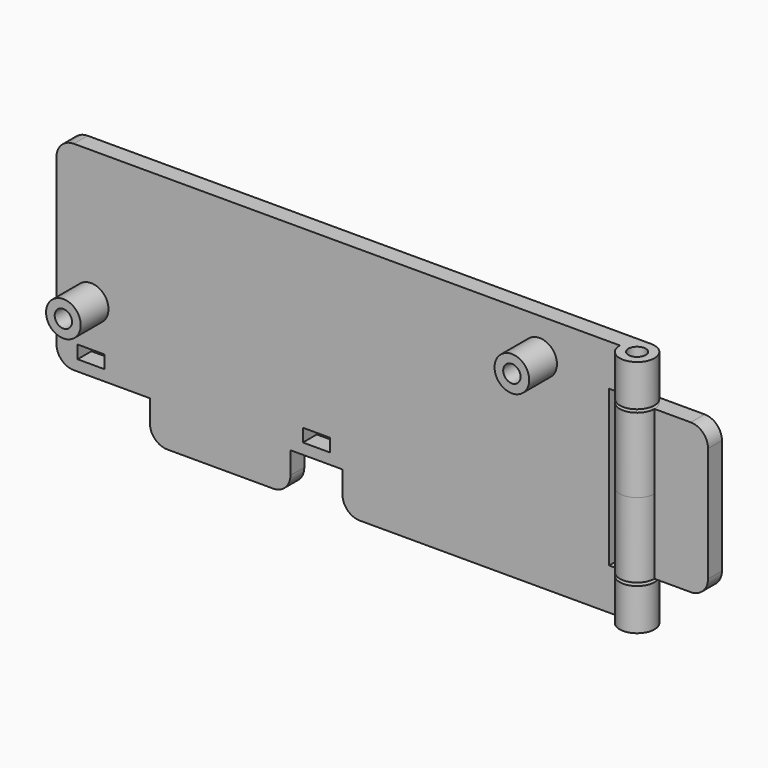
from build123d import *

# Parameters (mm, degrees)
F0_R           = 2
F0_W           = 9
F0_H           = 21
F0_R_2         = 1
F0_H_2         = 6.55
F1_DEPTH       = 2
F2_DEPTH       = 6
F3_R           = 1
F4_DEPTH       = 13.775
F4_DEPTH_BACK  = 13.775
F5_W           = 10.4610943198
F5_H           = 17.9593805224
F6_DEPTH       = 6
F7_DEPTH       = 8.625
F9_DEPTH       = 2
F10_DEPTH      = 13.776
F10_DEPTH_BACK = 13.776
F11_R          = 2
F11_2_R        = 2


with BuildPart() as f1:
    # F0 (on Front) → F1 (new body)
    with BuildSketch(Plane.XZ):
        Polygon((-0.5, -13.775), (24.5, -13.775), (24.5, -7.225), (-1.9384069145, -7.225), (-1.9384069145, -7.9757804051), (-5.0615930855, -7.9757804051), (-5.0615930855, -7.225), (-27.9384069145, -7.225), (-27.9384069145, -7.9757804051), (-31.0615930855, -7.9757804051), (-31.0615930855, -7.225), (-33.5, -7.225), (-33.5, -9.225), (-22.7120630443, -9.225), (-22.7120630443, -13.775), (-6.5, -13.775), (-6.5, -9.225), (-0.5, -9.225), align=None)
        Polygon((-1.9384069145, -7.225), (24.5, -7.225), (24.5, 13.775), (-33.5, 13.775), (-33.5, -7.225), (-31.0615930855, -7.225), (-31.0615930855, -6.4742195949), (-27.9384069145, -6.4742195949), (-27.9384069145, -7.225), (-5.0615930855, -7.225), (-5.0615930855, -6.4742195949), (-1.9384069145, -6.4742195949), align=None)
        with Locations((-29.5, -1.725)):
            Circle(F0_R, mode=Mode.SUBTRACT)
        with Locations((22.25, 9.525)):
            Circle(F0_R, mode=Mode.SUBTRACT)
        with Locations((29, 3.275)):
            Rectangle(F0_W, F0_H)
        with Locations((22.25, 9.525)):
            Circle(F0_R)
        with Locations((22.25, 9.525)):
            Circle(F0_R_2, mode=Mode.SUBTRACT)
        with Locations((-29.5, -1.725)):
            Circle(F0_R)
        with Locations((-29.5, -1.725)):
            Circle(F0_R_2, mode=Mode.SUBTRACT)
        with Locations((29, -10.5)):
            Rectangle(F0_W, F0_H_2)
    extrude(amount=F1_DEPTH)

    # F0 (on Front) → F2 (join)
    with BuildSketch(Plane.XZ):
        with Locations((-29.5, -1.725)):
            Circle(F0_R)
        with Locations((-29.5, -1.725)):
            Circle(F0_R_2, mode=Mode.SUBTRACT)
        with Locations((22.25, 9.525)):
            Circle(F0_R)
        with Locations((22.25, 9.525)):
            Circle(F0_R_2, mode=Mode.SUBTRACT)
    extrude(amount=F2_DEPTH)

    # F3 (on Top) → F4 (join, two sides)
    with BuildSketch(Plane.XY) as f4_sk:
        with BuildLine():
            ThreePointArc((33.5, 0), (32.0857864376, -3.4142135624), (35.5, -2))
            ThreePointArc((35.5, -2), (34.9142135624, -0.5857864376), (33.5, 0))
        make_face()
        with Locations((33.5, -2)):
            Circle(F3_R, mode=Mode.SUBTRACT)
        with Locations((33.5, -2)):
            Circle(F3_R)
    extrude(amount=F4_DEPTH)
    extrude(f4_sk.sketch, amount=-F4_DEPTH_BACK)

    # F5 (on Front) → F6 (cut)
    with BuildSketch(Plane.XZ):
        with Locations((35.5, 0)):
            Rectangle(F5_W, F5_H)
    extrude(amount=F6_DEPTH, mode=Mode.SUBTRACT)


with BuildPart() as f7:
    # F3 (on Top) → F7 (new body, symmetric)
    with BuildSketch(Plane.XY):
        with BuildLine():
            ThreePointArc((33.5, 0), (32.0857864376, -3.4142135624), (35.5, -2))
            ThreePointArc((35.5, -2), (34.9142135624, -0.5857864376), (33.5, 0))
        make_face()
        with Locations((33.5, -2)):
            Circle(F3_R, mode=Mode.SUBTRACT)
    extrude(amount=F7_DEPTH, both=True)

    # F8 (on Front) → F9 (join, through all)
    with BuildSketch(Plane.XZ):
        Polygon((35.5, 8.625), (33.5, 8.625), (33.5, -8.625), (35.5, -8.625), (41.6854098439, -8.625), (41.6854098439, 8.625), align=None)
    extrude(amount=F9_DEPTH)


with BuildPart() as f10_tool:
    # F3 (on Top) → F10 (new body, two sides)
    with BuildSketch(Plane.XY) as f10_sk:
        with Locations((33.5, -2)):
            Circle(F3_R)
    extrude(amount=-F10_DEPTH)
    extrude(f10_sk.sketch, amount=F10_DEPTH_BACK)


with BuildPart() as f1_1:
    add(f1.part)

    # F10: cut by f10_tool
    add(f10_tool.part, mode=Mode.SUBTRACT)

    # F11
    f11_edges = [f1_1.edges().sort_by_distance(p)[0] for p in [
        (-33.5, -1, -9.225),
        (-33.5, -1, 13.775),
        (-22.712063, -1, -13.775),
        (-6.5, -1, -13.775),
        (-0.5, -1, -13.775),
    ]]
    fillet(f11_edges, radius=F11_R)


with BuildPart() as f7_1:
    add(f7.part)

    # F10: cut by f10_tool
    add(f10_tool.part, mode=Mode.SUBTRACT)

    # F11#2
    f11_2_edges = [f7_1.edges().sort_by_distance(p)[0] for p in [
        (41.68541, -1, -8.625),
        (41.68541, -1, 8.625),
    ]]
    fillet(f11_2_edges, radius=F11_2_R)


solid = Compound([f1_1.part, f7_1.part])
